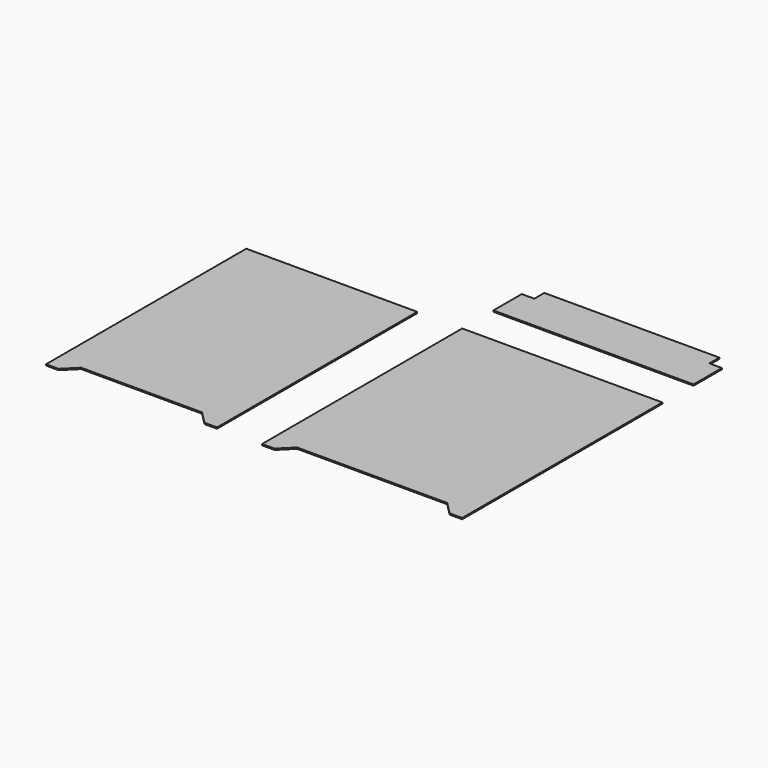
from build123d import *

# Parameters (mm, degrees)
F3_DEPTH = 3


with BuildPart() as f3:
    # F0 (on Top) + F1 (on Top) + F2 (on Top) → F3 (new body)
    with BuildSketch(Plane.XY):
        Polygon((175, -300), (205, -300), (205, 300), (-205, 300), (-205, -300), (-175, -300), (-145, -270), (145, -270), align=None)
    with BuildSketch(Plane.XY):
        Polygon((312.892625, 300), (312.892625, -300), (342.892625, -300), (372.892625, -270), (732.892625, -270), (762.892625, -300), (792.892625, -300), (792.892625, 300), align=None)
    with BuildSketch(Plane.XY):
        Polygon((312.892625, 393.580892), (792.892625, 393.580892), (792.892625, 478.580892), (762.892625, 478.580892), (762.892625, 508.580892), (342.892625, 508.580892), (342.892625, 478.580892), (312.892625, 478.580892), align=None)
    extrude(amount=F3_DEPTH)


solid = f3.part
